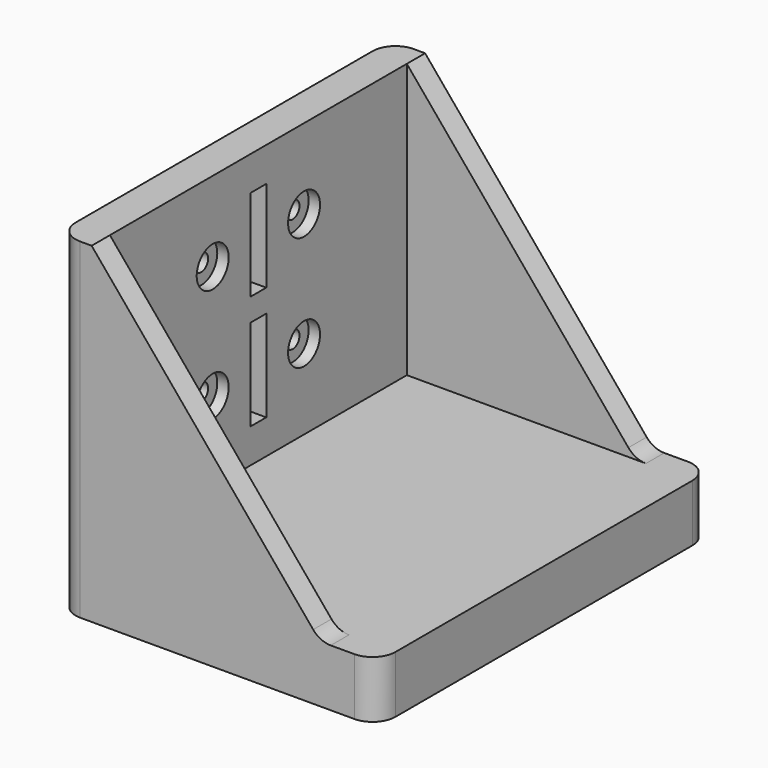
from build123d import *

# Parameters (mm, degrees)
F0_W      = 56
F0_H      = 73
F1_DEPTH  = 10
F2_W      = 40
F2_H      = 4
F3_DEPTH  = 48
F5_DEPTH  = 73.001
F6_R      = 4
F7_W      = 1.035
F7_H      = 16
F8_DEPTH  = 2
F7_W_2    = 3.45
F9_DEPTH  = 6
F10_R     = 3.5
F10_R_2   = 1.5
F11_DEPTH = 2
F12_DEPTH = 6


with BuildPart() as f1:
    # F0 (on Top) → F1 (new body)
    with BuildSketch(Plane.XY):
        with Locations((28, 36.5)):
            Rectangle(F0_W, F0_H)
    extrude(amount=F1_DEPTH)

    # F2 (on face) → F3 (join)
    with BuildSketch(Plane.XY.offset(10)):
        Polygon((6, 73), (0, 73), (0, 0), (6, 0), (6, 4), (6, 69), align=None)
        with Locations((26, 71)):
            Rectangle(F2_W, F2_H)
        with Locations((26, 2)):
            Rectangle(F2_W, F2_H)
    extrude(amount=F3_DEPTH)

    # F4 (on face) → F5 (cut, through all)
    with BuildSketch(Plane.XZ):
        Polygon((6, 58), (46, 10), (46, 58), align=None)
    extrude(amount=-F5_DEPTH, mode=Mode.SUBTRACT)

    # F6
    f6_edges = [f1.edges().sort_by_distance(p)[0] for p in [
        (0, 0, 29),
        (56, 0, 5),
        (46, 2, 10),
        (46, 71, 10),
        (56, 73, 5),
        (0, 73, 29),
    ]]
    fillet(f6_edges, radius=F6_R)

    # F7 (on face) → F8 (cut)
    with BuildSketch(Plane(origin=(0, 0, 0), x_dir=(0, -1, 0), z_dir=(-1, 0, 0))):
        with Locations((-38.7425, 44)):
            Rectangle(F7_W, F7_H)
        with Locations((-34.2575, 44)):
            Rectangle(F7_W, F7_H)
        with Locations((-34.2575, 24)):
            Rectangle(F7_W, F7_H)
        with Locations((-38.7425, 24)):
            Rectangle(F7_W, F7_H)
    extrude(amount=-F8_DEPTH, mode=Mode.SUBTRACT)

    # F7 (on face) → F9 (cut, through all)
    with BuildSketch(Plane(origin=(0, 0, 0), x_dir=(0, -1, 0), z_dir=(-1, 0, 0))):
        with Locations((-36.5, 44)):
            Rectangle(F7_W_2, F7_H)
        with Locations((-36.5, 24)):
            Rectangle(F7_W_2, F7_H)
    extrude(amount=-F9_DEPTH, mode=Mode.SUBTRACT)

    # F10 (on face) → F11 (cut)
    with BuildSketch(Plane.YZ.offset(6)):
        with Locations((26.5, 44)):
            Circle(F10_R)
        with Locations((26.5, 44)):
            Circle(F10_R_2, mode=Mode.SUBTRACT)
        with Locations((46.5, 44)):
            Circle(F10_R)
        with Locations((46.5, 44)):
            Circle(F10_R_2, mode=Mode.SUBTRACT)
        with Locations((46.5, 24)):
            Circle(F10_R)
        with Locations((46.5, 24)):
            Circle(F10_R_2, mode=Mode.SUBTRACT)
        with Locations((26.5, 24)):
            Circle(F10_R)
        with Locations((26.5, 24)):
            Circle(F10_R_2, mode=Mode.SUBTRACT)
    extrude(amount=-F11_DEPTH, mode=Mode.SUBTRACT)

    # F10 (on face) → F12 (cut, through all)
    with BuildSketch(Plane.YZ.offset(6)):
        with Locations((26.5, 44)):
            Circle(F10_R_2)
        with Locations((46.5, 44)):
            Circle(F10_R_2)
        with Locations((46.5, 24)):
            Circle(F10_R_2)
        with Locations((26.5, 24)):
            Circle(F10_R_2)
    extrude(amount=-F12_DEPTH, mode=Mode.SUBTRACT)


solid = f1.part
